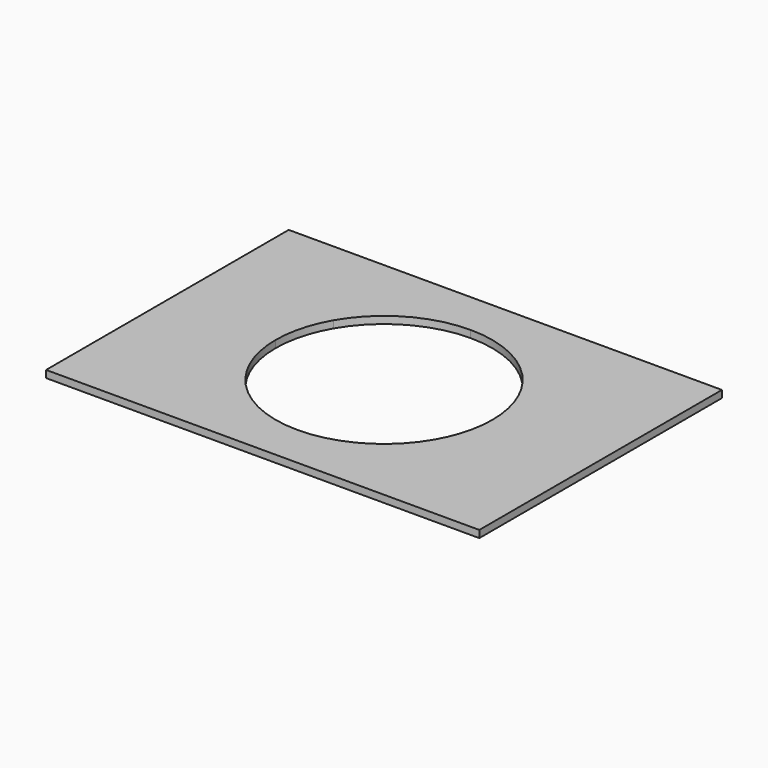
from build123d import *

# Parameters (mm, degrees)
F1_DEPTH = 25.4


with BuildPart() as f1:
    # F0 (on Top) → F1 (new body)
    with BuildSketch(Plane.XY):
        with BuildLine():
            Line((-1063.343933, 1044.720739), (-1495.143933, 1044.720739))
            Line((-1495.143933, 1044.720739), (-1495.143933, 511.320739))
            Line((-1495.143933, 511.320739), (-1114.143933, 511.320739))
            ThreePointArc((-1114.143933, 511.320739), (-1101.224902, 609.694516), (-1063.343933, 701.396934))
            Line((-1063.343933, 701.396934), (-1063.343933, 1044.720739))
        make_face()
        with BuildLine():
            Line((-733.143933, 1044.720739), (-1063.343933, 1044.720739))
            Line((-1063.343933, 1044.720739), (-1063.343933, 701.396934))
            ThreePointArc((-1063.343933, 701.396934), (-923.855718, 841.154053), (-733.143933, 892.320739))
            Line((-733.143933, 892.320739), (-733.143933, 1044.720739))
        make_face()
        with BuildLine():
            Line((-1114.143933, 511.320739), (-1495.143933, 511.320739))
            Line((-1495.143933, 511.320739), (-1495.143933, -22.079261))
            Line((-1495.143933, -22.079261), (-1063.343933, -22.079261))
            Line((-1063.343933, -22.079261), (-1063.343933, 321.244544))
            ThreePointArc((-1063.343933, 321.244544), (-1101.224902, 412.946962), (-1114.143933, 511.320739))
        make_face()
        with BuildLine():
            Line((-402.943933, 1044.720739), (-733.143933, 1044.720739))
            Line((-733.143933, 1044.720739), (-733.143933, 892.320739))
            ThreePointArc((-733.143933, 892.320739), (-542.432148, 841.154053), (-402.943933, 701.396934))
            Line((-402.943933, 701.396934), (-402.943933, 1044.720739))
        make_face()
        with BuildLine():
            Line((28.856067, 1044.720739), (-402.943933, 1044.720739))
            Line((-402.943933, 1044.720739), (-402.943933, 701.396934))
            ThreePointArc((-402.943933, 701.396934), (-365.062964, 609.694516), (-352.143933, 511.320739))
            Line((-352.143933, 511.320739), (28.856067, 511.320739))
            Line((28.856067, 511.320739), (28.856067, 1044.720739))
        make_face()
        with BuildLine():
            Line((-1063.343933, 321.244544), (-1063.343933, -22.079261))
            Line((-1063.343933, -22.079261), (-733.143933, -22.079261))
            Line((-733.143933, -22.079261), (-733.143933, 130.320739))
            ThreePointArc((-733.143933, 130.320739), (-923.855718, 181.487425), (-1063.343933, 321.244544))
        make_face()
        with BuildLine():
            Line((-733.143933, 130.320739), (-733.143933, -22.079261))
            Line((-733.143933, -22.079261), (-402.943933, -22.079261))
            Line((-402.943933, -22.079261), (-402.943933, 321.244544))
            ThreePointArc((-402.943933, 321.244544), (-542.432148, 181.487425), (-733.143933, 130.320739))
        make_face()
        with BuildLine():
            Line((28.856067, -22.079261), (28.856067, 511.320739))
            Line((28.856067, 511.320739), (-352.143933, 511.320739))
            ThreePointArc((-352.143933, 511.320739), (-365.062964, 412.946962), (-402.943933, 321.244544))
            Line((-402.943933, 321.244544), (-402.943933, -22.079261))
            Line((-402.943933, -22.079261), (28.856067, -22.079261))
        make_face()
    extrude(amount=F1_DEPTH)


solid = f1.part
